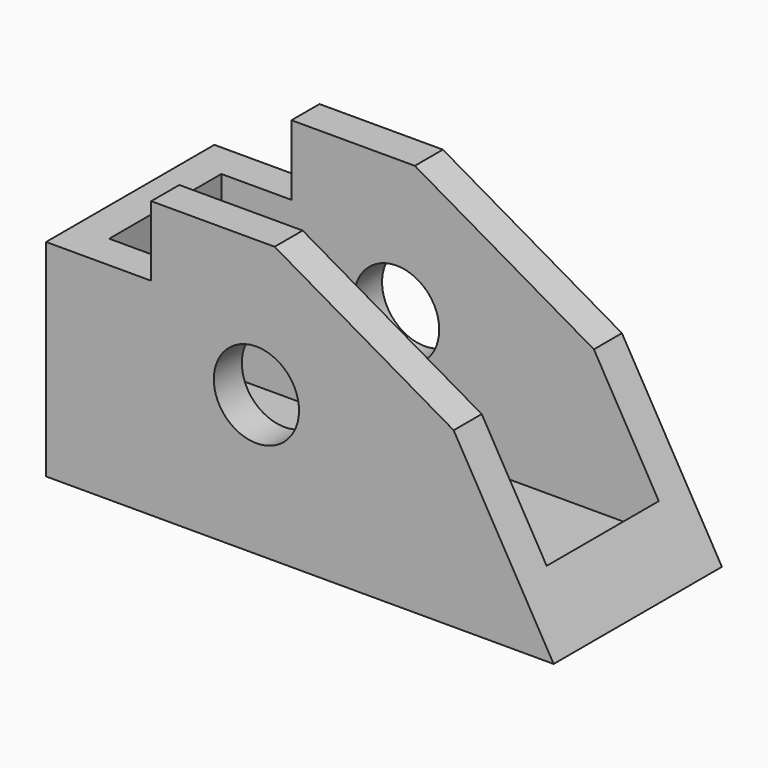
from build123d import *

# Parameters (mm, degrees)
F0_R     = 7.7179968939
F1_DEPTH = 38.1
F2_W     = 6.3499980524
F2_H     = 3.8099980524
F2_H_2   = 5.3974985393
F3_DEPTH = 12.7
F4_W     = 79.248
F4_H     = 25.4
F5_DEPTH = 44.45


with BuildPart() as f1:
    # F0 (on Front) → F1 (new body)
    with BuildSketch(Plane.XZ):
        Polygon((-13.60275174, 47.8438777382), (-35.95475174, 47.8438777382), (-35.95475174, 35.1438777382), (-55.00475174, 35.1438777382), (-55.00475174, -2.255679107), (36.94324826, -2.255679107), (18.8287593137, 29.1195361012), align=None)
        with Locations((-16.90475174, 23.144320893)):
            Circle(F0_R, mode=Mode.SUBTRACT)
    extrude(amount=F1_DEPTH)

    # F2 (on face) → F3 (join)
    with BuildSketch(Plane.XY.offset(35.1438777382)):
        with Locations((-45.4797527138, -29.8450009738)):
            Rectangle(F2_W, F2_H)
        with Locations((-45.4797527138, -9.0487492696)):
            Rectangle(F2_W, F2_H_2)
    extrude(amount=F3_DEPTH)

    # F4 (on face) → F5 (cut)
    with BuildSketch(Plane.XY.offset(47.8438777382)):
        with Locations((-9.03075174, -19.05)):
            Rectangle(F4_W, F4_H)
        Polygon((-42.3047536876, -27.9400019476), (-42.3047536876, -31.75), (30.59324826, -31.75), (30.59324826, -6.35), (-48.65475174, -6.35), (-48.65475174, -27.9400019476), align=None)
    extrude(amount=-F5_DEPTH, mode=Mode.SUBTRACT)


solid = f1.part
